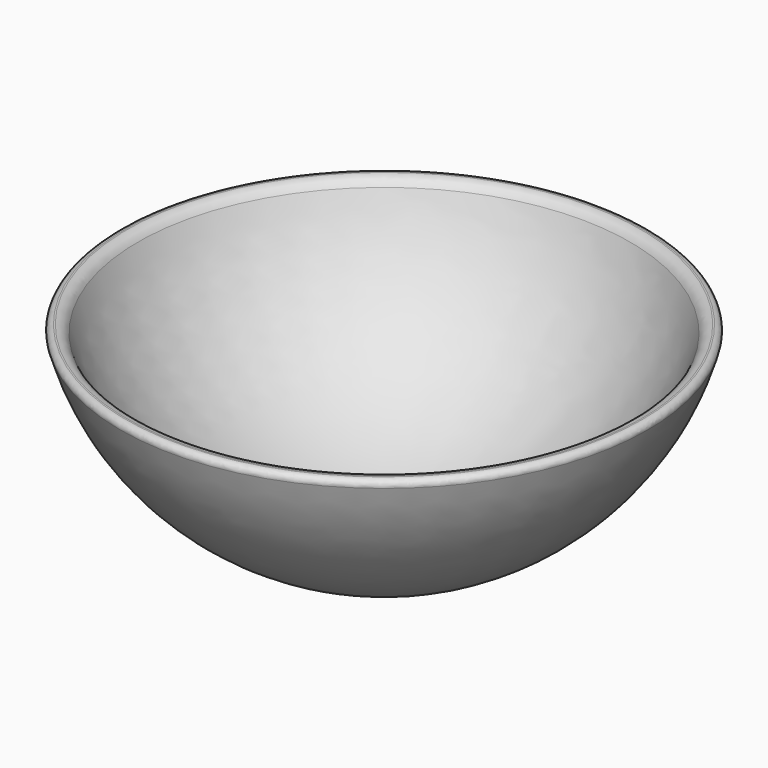
from build123d import *

# Parameters (mm, degrees)
F2_R = 1
F3_R = 2


with BuildPart() as f1:
    # F0 (on Front) → F1 (revolve)
    with BuildSketch(Plane.XZ):
        with BuildLine():
            Line((0, 3), (0, 0))
            ThreePointArc((0, 0), (29.527422, 10.079913), (46.727345, 36.111355))
            Line((46.727345, 36.111355), (43.727345, 36.111355))
            ThreePointArc((43.727345, 36.111355), (27.051049, 12.705151), (0, 3))
        make_face()
    revolve(axis=Axis((0, 0, 1.5), (0, 0, -1)))

    # F2
    f2_edges = [f1.edges().sort_by_distance(p)[0] for p in [
        (-46.727345, 0, 36.111355),
    ]]
    fillet(f2_edges, radius=F2_R)

    # F3
    f3_edges = [f1.edges().sort_by_distance(p)[0] for p in [
        (-43.727345, 0, 36.111355),
    ]]
    fillet(f3_edges, radius=F3_R)


solid = f1.part
